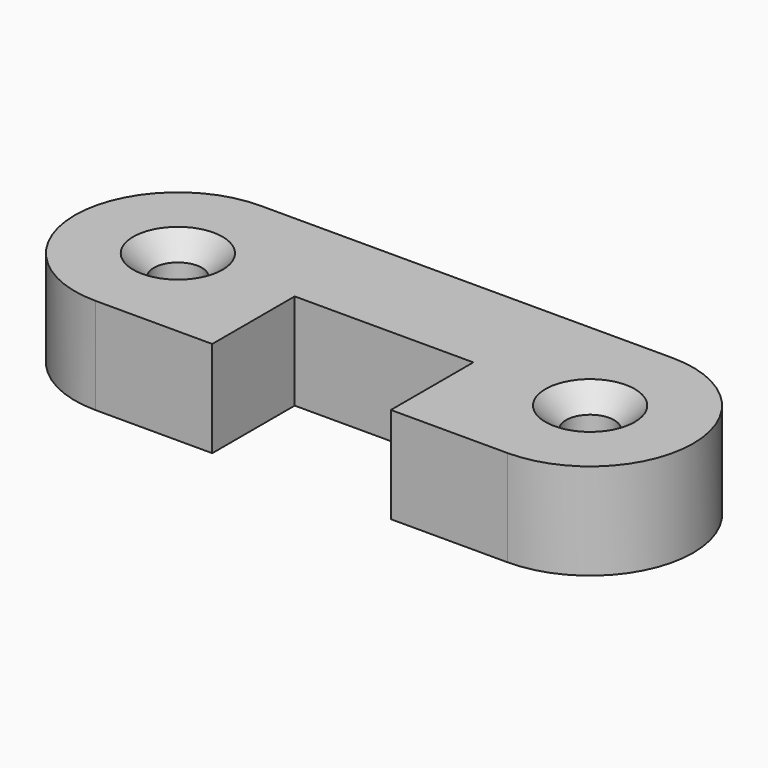
from build123d import *

# Parameters (mm, degrees)
F0_R     = 1.75
F1_DEPTH = 7
F2_SIZE  = 1.5


with BuildPart() as f1:
    # F0 (on Top) → F1 (new body)
    with BuildSketch(Plane.XY):
        with BuildLine():
            Line((-7.5, -7.5), (-7.5, 7.5))
            Line((-7.5, 7.5), (-15, 7.5))
            ThreePointArc((-15, 7.5), (-22.5, 0), (-15, -7.5))
            Line((-15, -7.5), (-7.5, -7.5))
        make_face()
        with Locations((-15, 0)):
            Circle(F0_R, mode=Mode.SUBTRACT)
        Polygon((7.5, -7.5), (7.5, 7.5), (-7.5, 7.5), (-7.5, -7.5), (-6.5, -7.5), (-6.5, 0), (6.5, 0), (6.5, -7.5), align=None)
        with BuildLine():
            Line((15, 7.5), (7.5, 7.5))
            Line((7.5, 7.5), (7.5, -7.5))
            Line((7.5, -7.5), (15, -7.5))
            ThreePointArc((15, -7.5), (22.5, 0), (15, 7.5))
        make_face()
        with Locations((15, 0)):
            Circle(F0_R, mode=Mode.SUBTRACT)
    extrude(amount=F1_DEPTH)

    # F2
    f2_edges = [f1.edges().sort_by_distance(p)[0] for p in [
        (-16.75, 0, 7),
        (13.25, 0, 7),
    ]]
    chamfer(f2_edges, length=F2_SIZE)


solid = f1.part
